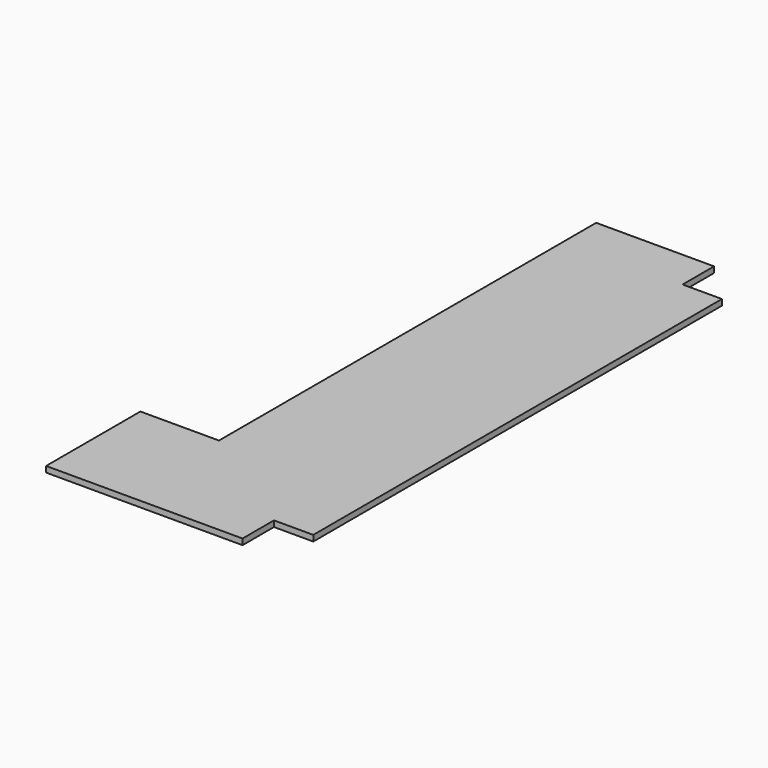
from build123d import *

# Parameters (mm, degrees)
PAD_DEPTH = 3


with BuildPart() as part:
    # Sketch → Pad (new body)
    with BuildSketch(Plane.XY):
        Polygon((35, -15), (35, -75), (135, -75), (135, -55), (155, -55), (155, 205), (135, 205), (135, 225), (75, 225), (75, -15), align=None)
    extrude(amount=PAD_DEPTH)


solid = part.part
